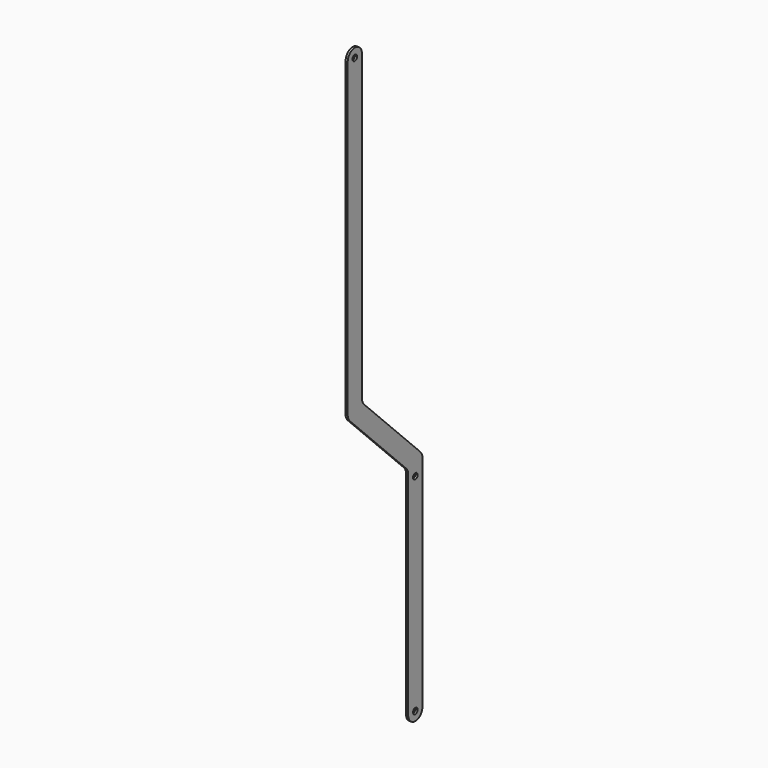
from build123d import *

# Parameters (mm, degrees)
F0_R     = 4
F1_DEPTH = 3
F2_R     = 12.5
F3_R     = 12.5


with BuildPart() as f1:
    # F0 (on Right) → F1 (new body)
    with BuildSketch(Plane.YZ):
        with BuildLine():
            Line((-241.300457, 281.4474), (-135.23444, 175.381383))
            Line((-135.23444, 175.381383), (-110.23444, 175.381383))
            Line((-110.23444, 175.381383), (-110.23444, 185.736722))
            Line((-110.23444, 185.736722), (-216.300457, 291.802739))
            Line((-216.300457, 291.802739), (-216.300457, 722.881383))
            ThreePointArc((-216.300457, 722.881383), (-219.961622, 731.720217), (-228.800457, 735.381383))
            ThreePointArc((-228.800457, 735.381383), (-237.639292, 731.720217), (-241.300457, 722.881383))
            Line((-241.300457, 722.881383), (-241.300457, 281.4474))
        make_face()
        with Locations((-228.800457, 722.881383)):
            Circle(F0_R, mode=Mode.SUBTRACT)
        with BuildLine():
            Line((-110.23444, 175.381383), (-135.23444, 175.381383))
            Line((-135.23444, 175.381383), (-135.23444, -127.118617))
            ThreePointArc((-135.23444, -127.118617), (-131.573275, -135.957452), (-122.73444, -139.618617))
            ThreePointArc((-122.73444, -139.618617), (-113.895605, -135.957452), (-110.23444, -127.118617))
            Line((-110.23444, -127.118617), (-110.23444, 175.381383))
        make_face()
        with Locations((-122.73444, -127.118617)):
            Circle(F0_R, mode=Mode.SUBTRACT)
        with Locations((-122.73444, 162.881383)):
            Circle(F0_R, mode=Mode.SUBTRACT)
    extrude(amount=F1_DEPTH)

    # F2
    f2_edges = [f1.edges().sort_by_distance(p)[0] for p in [
        (1.5, -110.23444, 185.736722),
        (1.5, -241.300457, 281.4474),
    ]]
    fillet(f2_edges, radius=F2_R)

    # F3
    f3_edges = [f1.edges().sort_by_distance(p)[0] for p in [
        (1.5, -135.23444, 175.381383),
        (1.5, -216.300457, 291.802739),
    ]]
    fillet(f3_edges, radius=F3_R)


solid = f1.part
